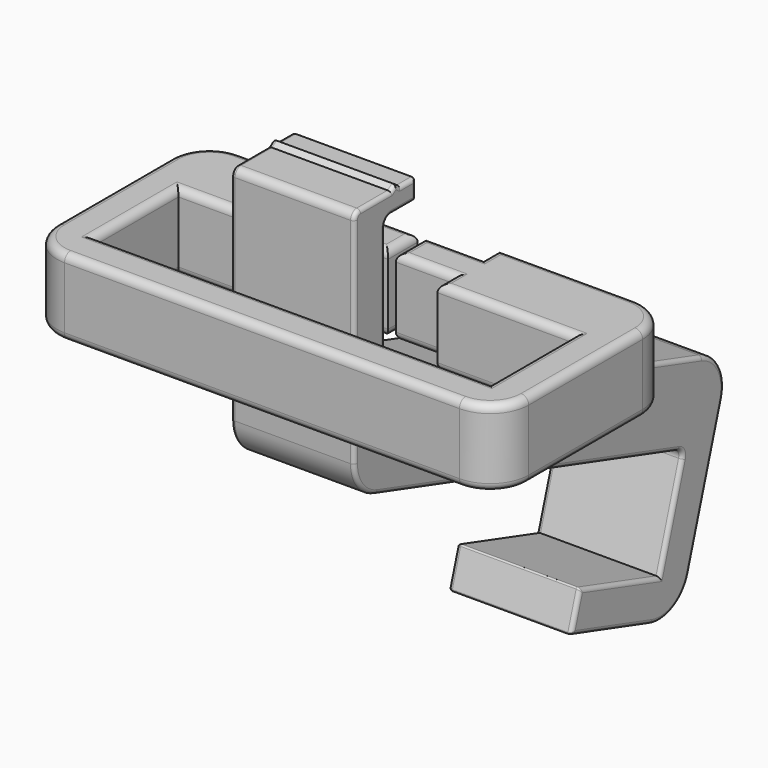
from build123d import *

# Parameters (mm, degrees)
PAD_DEPTH      = 8
PAD_DEPTH_BACK = 8
FILLET_R       = 5
FILLET003_R    = 1
FILLET004_R    = 0.5
FILLET005_R    = 0.2
PAD001_DEPTH   = 10
FILLET001_R    = 5
FILLET002_R    = 1


with BuildPart() as main_arm:
    # Sketch → Pad (new body, two sides)
    with BuildSketch(Plane.YZ) as pad_sk:
        Polygon((10, 23.6), (7.5, 23.6), (6.75, 24.1), (6, 23.6), (0, 23.6), (0, -8.928264), (53.553066, -25.30108), (49.606048, -38.211194), (36.695934, -34.264176), (35.234076, -39.0457), (52.925714, -44.454576), (61.258307, -17.199891), (5, 0), (5, 21), (10, 21), align=None)
        Polygon((25.130308, -8.768682), (23.66845, -13.550206), (33.422758, -16.532397), (34.884617, -11.750874), align=None, mode=Mode.SUBTRACT)
    extrude(amount=PAD_DEPTH)
    extrude(pad_sk.sketch, amount=-PAD_DEPTH_BACK)

    # Fillet
    fillet_edges = [main_arm.edges().sort_by_distance(p)[0] for p in [
        (0, 61.258307, -17.199891),
        (0, 5, 0),
        (0, 52.925714, -44.454576),
        (0, 0, -8.928264),
    ]]
    fillet(fillet_edges, radius=FILLET_R)

    # Fillet003
    fillet003_edges = [main_arm.edges().sort_by_distance(p)[0] for p in [
        (0, 53.553066, -25.30108),
        (0, 0, 23.6),
        (0, 5, 21),
    ]]
    fillet(fillet003_edges, radius=FILLET003_R)

    # Fillet004
    fillet004_edges = [main_arm.edges().sort_by_distance(p)[0] for p in [
        (8, 5, 11.849903),
        (8, 5.292893, 20.707107),
        (8, 5.980716, 0.725691),
        (8, 8, 21),
        (8, 32.507462, -8.409875),
        (8, 10, 22.3),
        (8, 59.429663, -18.172198),
        (8, 8.75, 23.6),
        (8, 57.09201, -30.827233),
        (8, 7.125, 23.85),
        (8, 51.953406, -42.625932),
        (8, 6.375, 23.85),
        (8, 41.689133, -41.019209),
        (8, 3.5, 23.6),
        (8, 35.965005, -36.654938),
        (8, 0.292893, 23.307107),
        (8, 43.150991, -36.237685),
        (8, 0, 8.685771),
        (8, 51.433371, -32.234289),
        (8, 0.980716, -8.202573),
        (8, 53.187337, -25.495541),
        (8, 28.067452, -17.509345),
        (8, 24.399379, -11.159444),
        (8, 28.545604, -15.041302),
        (8, 34.153687, -14.141636),
        (8, 30.007462, -10.259778),
        (-8, 5, 11.849903),
        (-8, 5.292893, 20.707107),
        (-8, 5.980716, 0.725691),
        (-8, 8, 21),
        (-8, 32.507462, -8.409875),
        (-8, 10, 22.3),
        (-8, 59.429663, -18.172198),
        (-8, 8.75, 23.6),
        (-8, 57.09201, -30.827233),
        (-8, 7.125, 23.85),
        (-8, 51.953406, -42.625932),
        (-8, 6.375, 23.85),
        (-8, 41.689133, -41.019209),
        (-8, 3.5, 23.6),
        (-8, 35.965005, -36.654938),
        (-8, 0.292893, 23.307107),
        (-8, 43.150991, -36.237685),
        (-8, 0, 8.685771),
        (-8, 51.433371, -32.234289),
        (-8, 0.980716, -8.202573),
        (-8, 53.187337, -25.495541),
        (-8, 28.067452, -17.509345),
        (-8, 24.399379, -11.159444),
        (-8, 28.545604, -15.041302),
        (-8, 34.153687, -14.141636),
        (-8, 30.007462, -10.259778),
    ]]
    fillet(fillet004_edges, radius=FILLET004_R)

    # Fillet005
    fillet005_edges = [main_arm.edges().sort_by_distance(p)[0] for p in [
        (0, 35.234076, -39.0457),
        (-7.5, 35.965005, -36.654938),
        (7.5, 35.965005, -36.654938),
        (0, 36.695934, -34.264176),
        (0, 10, 21),
        (-7.5, 10, 22.3),
        (7.5, 10, 22.3),
        (0, 10, 23.6),
    ]]
    fillet(fillet005_edges, radius=FILLET005_R)


with BuildPart() as connector_sleeve:
    # Sketch001 → Pad001 (new body)
    with BuildSketch(Plane.XY):
        Polygon((-8, 23.5), (-30.65, 23.5), (-30.65, -5), (30.65, -5), (30.65, 23.5), (8, 23.5), (8, 20.9), (0.5, 20.9), (0.5, 16.1), (8, 16.1), (8, 13.5), (25.65, 13.5), (25.65, 0), (-25.65, 0), (-25.65, 13.5), (-8, 13.5), (-8, 16.1), (-0.5, 16.1), (-0.5, 20.9), (-8, 20.9), align=None)
    extrude(amount=PAD001_DEPTH)

    # Fillet001
    fillet001_edges = [connector_sleeve.edges().sort_by_distance(p)[0] for p in [
        (30.65, 23.5, 5),
        (30.65, -5, 5),
        (-30.65, -5, 5),
        (-30.65, 23.5, 5),
    ]]
    fillet(fillet001_edges, radius=FILLET001_R)

    # Fillet002
    fillet002_edges = [connector_sleeve.edges().sort_by_distance(p)[0] for p in [
        (-16.825, 23.5, 10),
        (-29.185534, 22.035534, 10),
        (-8, 22.2, 10),
        (-30.65, 9.25, 10),
        (-4.25, 20.9, 10),
        (-29.185534, -3.535534, 10),
        (-0.5, 18.5, 10),
        (0, -5, 10),
        (-4.25, 16.1, 10),
        (29.185534, -3.535534, 10),
        (-8, 14.8, 10),
        (30.65, 9.25, 10),
        (-16.825, 13.5, 10),
        (29.185534, 22.035534, 10),
        (-25.65, 6.75, 10),
        (16.825, 23.5, 10),
        (0, 0, 10),
        (8, 22.2, 10),
        (25.65, 6.75, 10),
        (4.25, 20.9, 10),
        (16.825, 13.5, 10),
        (0.5, 18.5, 10),
        (8, 14.8, 10),
        (4.25, 16.1, 10),
        (-16.825, 23.5, 0),
        (-29.185534, 22.035534, 0),
        (-8, 22.2, 0),
        (-30.65, 9.25, 0),
        (-4.25, 20.9, 0),
        (-29.185534, -3.535534, 0),
        (-0.5, 18.5, 0),
        (0, -5, 0),
        (-4.25, 16.1, 0),
        (29.185534, -3.535534, 0),
        (-8, 14.8, 0),
        (30.65, 9.25, 0),
        (-16.825, 13.5, 0),
        (29.185534, 22.035534, 0),
        (-25.65, 6.75, 0),
        (16.825, 23.5, 0),
        (0, 0, 0),
        (8, 22.2, 0),
        (25.65, 6.75, 0),
        (4.25, 20.9, 0),
        (16.825, 13.5, 0),
        (0.5, 18.5, 0),
        (8, 14.8, 0),
        (4.25, 16.1, 0),
    ]]
    fillet(fillet002_edges, radius=FILLET002_R)


solid = Compound([main_arm.part, connector_sleeve.part])
